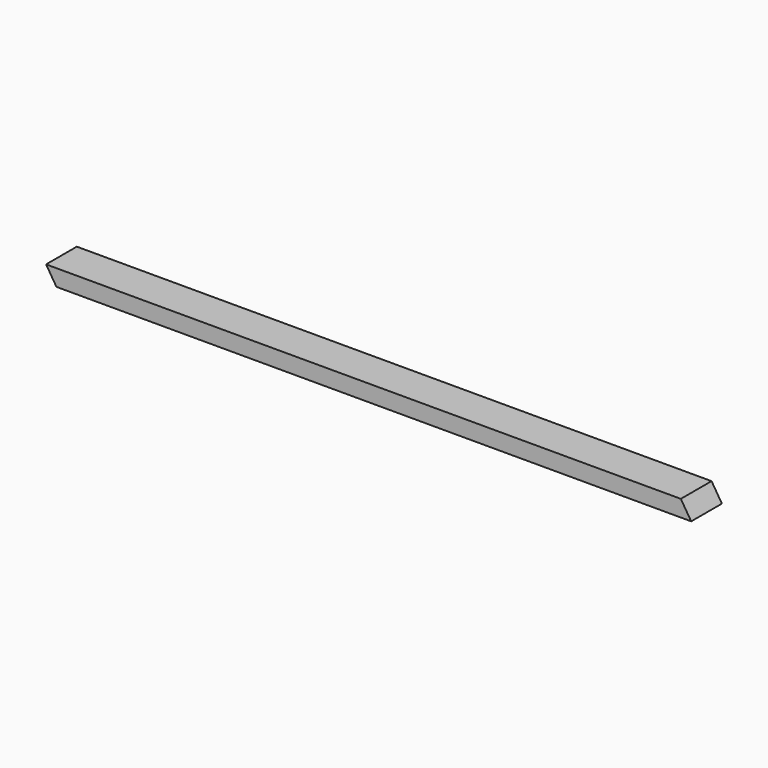
from build123d import *

# Parameters (mm, degrees)
F1_DEPTH      = 19.05
F3_DEPTH      = 44.451
F3_DEPTH_BACK = 44.451


with BuildPart() as f1:
    # F0 (on Top) → F1 (new body, symmetric)
    with BuildSketch(Plane.XY):
        Polygon((747.0775, -44.45), (747.0775, 44.45), (543.0524678135, 44.45), (-747.0775, 44.45), (-747.0775, -44.45), (-691.0074678135, -44.45), align=None)
    extrude(amount=F1_DEPTH, both=True)

    # F2 (on Front) → F3 (cut, two sides)
    with BuildSketch(Plane.XZ) as f3_sk:
        Polygon((723.0474862058, 19.05), (747.0775, -19.05), (747.0775, 19.05), align=None)
        Polygon((-747.0775, -19.05), (-723.0474862058, -19.05), (-747.0775, 19.05), align=None)
    extrude(amount=-F3_DEPTH, mode=Mode.SUBTRACT)
    extrude(f3_sk.sketch, amount=F3_DEPTH_BACK, mode=Mode.SUBTRACT)


solid = f1.part
